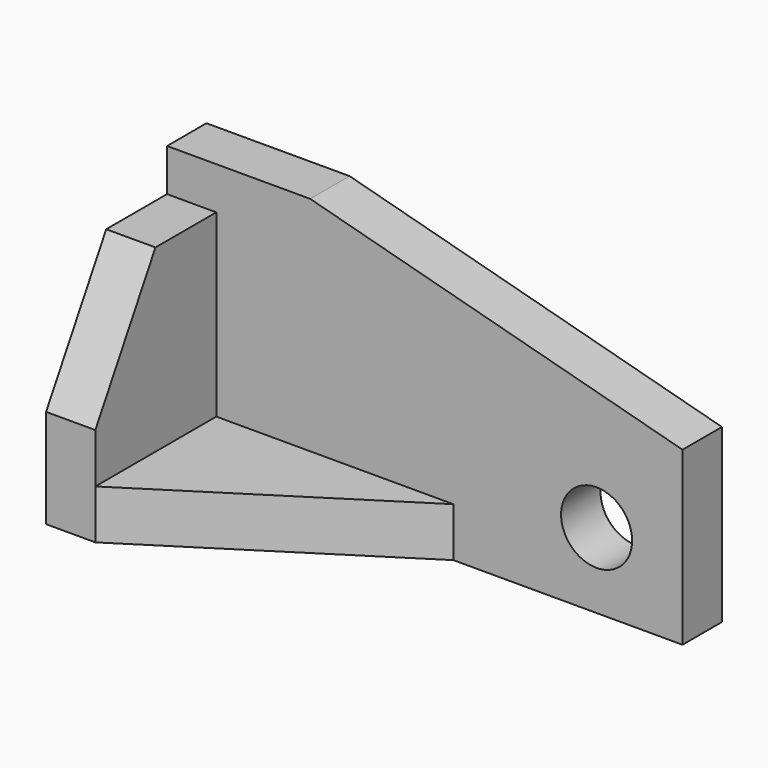
from build123d import *

# Parameters (mm, degrees)
F0_W      = 114.3
F0_H      = 60.198
F1_DEPTH  = 10.922
F2_W      = 63.5
F2_H      = 50.8
F3_DEPTH  = 33.528
F5_DEPTH  = 50.8
F7_DEPTH  = 39.878
F6_R      = 7.874
F8_DEPTH  = 10.922
F10_DEPTH = 11.938
F12_DEPTH = 10.922


with BuildPart() as f1:
    # F0 (on Front) → F1 (new body)
    with BuildSketch(Plane.XZ):
        with Locations((-20.784782, 8.17237)):
            Rectangle(F0_W, F0_H)
    extrude(amount=F1_DEPTH)

    # F2 (on face) → F3 (join)
    with BuildSketch(Plane.XZ.offset(10.922)):
        with Locations((-46.184782, 3.47337)):
            Rectangle(F2_W, F2_H)
    extrude(amount=F3_DEPTH)

    # F4 (on face) → F5 (cut)
    with BuildSketch(Plane.XY.offset(28.87337)):
        Polygon((-14.434782, -10.922), (-67.012782, -44.45), (-14.434782, -44.45), align=None)
    extrude(amount=-F5_DEPTH, mode=Mode.SUBTRACT)

    # F4 (on face) → F7 (cut)
    with BuildSketch(Plane.XY.offset(28.87337)):
        Polygon((-67.012782, -10.922), (-67.012782, -44.45), (-14.434782, -10.922), align=None)
    extrude(amount=-F7_DEPTH, mode=Mode.SUBTRACT)

    # F6 (on face) → F8 (cut)
    with BuildSketch(Plane.XZ.offset(10.922)):
        with Locations((17.315218, -5.247253)):
            Circle(F6_R)
    extrude(amount=-F8_DEPTH, mode=Mode.SUBTRACT)

    # F9 (on face) → F10 (cut)
    with BuildSketch(Plane.XZ.offset(10.922)):
        Polygon((36.365218, 38.27137), (-46.184782, 38.27137), (36.365218, 16.152164), align=None)
    extrude(amount=-F10_DEPTH, mode=Mode.SUBTRACT)

    # F11 (on face) → F12 (cut)
    with BuildSketch(Plane(origin=(-77.934782, 0, 0), x_dir=(0, -1, 0), z_dir=(-1, 0, 0))):
        Polygon((27.779952, 28.87337), (44.45, 0), (44.45, 28.87337), align=None)
    extrude(amount=-F12_DEPTH, mode=Mode.SUBTRACT)


solid = f1.part
